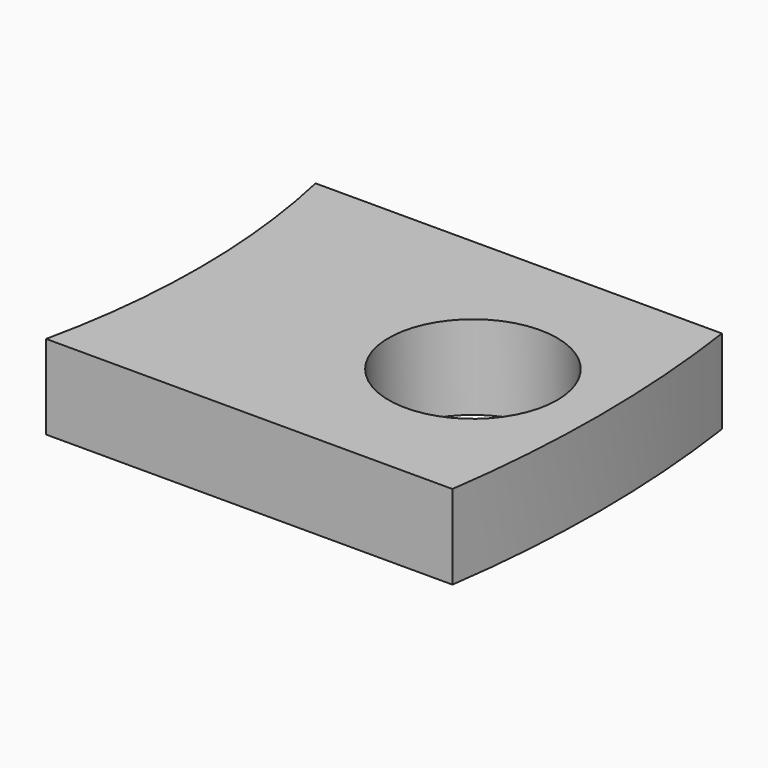
from build123d import *

# Parameters (mm, degrees)
PAD_DEPTH    = 2
SKETCH001_R  = 2
POCKET_DEPTH = 2.001


with BuildPart() as part:
    # Sketch → Pad (new body)
    with BuildSketch(Plane.XY):
        with BuildLine():
            Line((0, 4), (-9.650421, 4))
            ThreePointArc((-9.650421, -4), (-9.212813, 0), (-9.650421, 4))
            Line((-9.650421, -4), (0, -4))
            ThreePointArc((0, -4), (0.287187, 0), (0, 4))
        make_face()
    extrude(amount=PAD_DEPTH)

    # Sketch001 (on Face6 of Pad) → Pocket (cut, through all)
    with BuildSketch(Plane.XY.offset(2)):
        with Locations((-2.712813, 0)):
            Circle(SKETCH001_R)
    extrude(amount=-POCKET_DEPTH, mode=Mode.SUBTRACT)


solid = part.part
